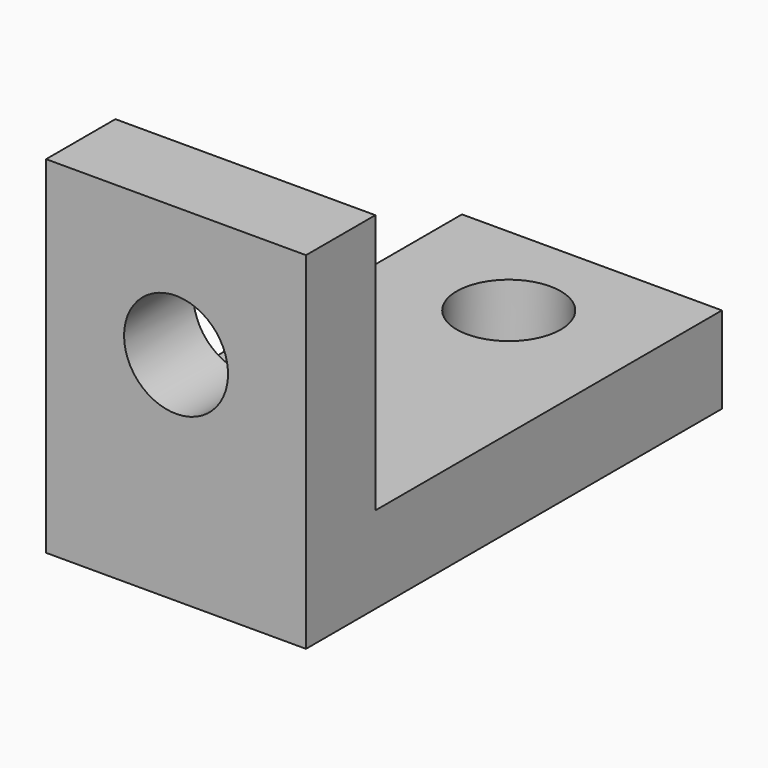
from build123d import *

# Parameters (mm, degrees)
F0_W     = 9.525
F0_H     = 15.875
F0_R     = 1.905
F1_DEPTH = 3.175
F0_H_2   = 3.175
F2_DEPTH = 12.7
F3_R     = 1.905
F4_DEPTH = 25.4


with BuildPart() as f1:
    # F0 (on Top) → F1 (new body)
    with BuildSketch(Plane.XY):
        with Locations((0, 1.5875)):
            Rectangle(F0_W, F0_H)
        with Locations((0, 5.715)):
            Circle(F0_R, mode=Mode.SUBTRACT)
    extrude(amount=F1_DEPTH)

    # F0 (on Top) → F2 (join)
    with BuildSketch(Plane.XY):
        with Locations((0, -7.9375)):
            Rectangle(F0_W, F0_H_2)
    extrude(amount=F2_DEPTH)

    # F3 (on face) → F4 (cut)
    with BuildSketch(Plane(origin=(0, -6.35, 0), x_dir=(-1, 0, 0), z_dir=(0, 1, 0))):
        with Locations((0, 7.9375)):
            Circle(F3_R)
    extrude(amount=-F4_DEPTH, mode=Mode.SUBTRACT)


solid = f1.part
